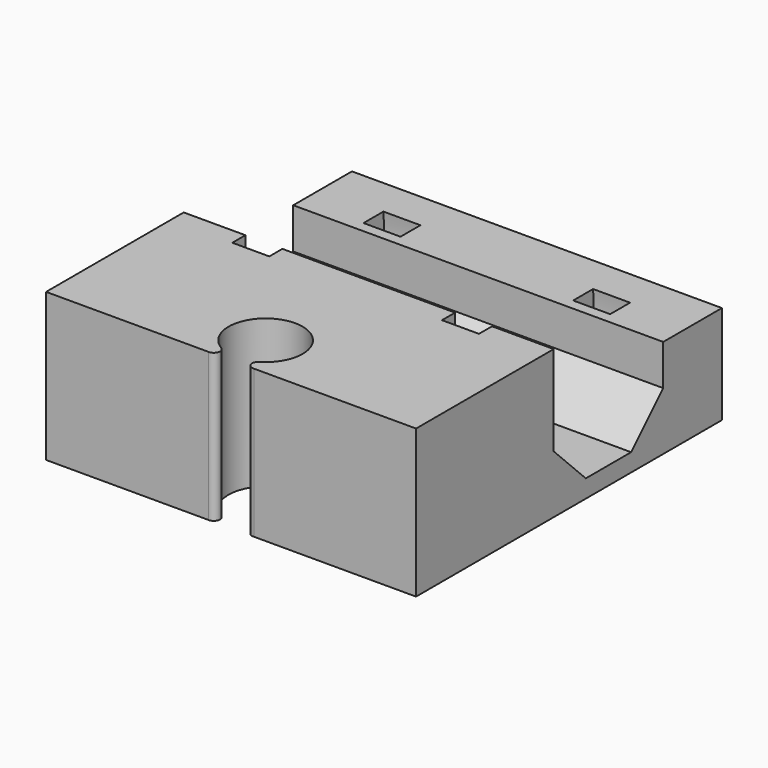
from build123d import *

# Parameters (mm, degrees)
SKETCH003_R     = 8.5
PAD001_DEPTH    = 3
SKETCH004_R     = 6.5
POCKET002_DEPTH = 3.001
PAD_DEPTH       = 12
POCKET_DEPTH    = 30.001
SKETCH002_W     = 5.95
SKETCH002_H     = 4
POCKET001_DEPTH = 30.001


with BuildPart() as pocket002:
    # Sketch003 → Pad001 (new body)
    with BuildSketch(Plane.YZ.offset(10)):
        with Locations((4, 7)):
            Circle(SKETCH003_R)
    extrude(amount=-PAD001_DEPTH)

    # Sketch004 → Pocket002 (cut, through all)
    with BuildSketch(Plane.YZ.offset(10)):
        with Locations((4, 7)):
            Circle(SKETCH004_R)
    extrude(amount=-POCKET002_DEPTH, mode=Mode.SUBTRACT)


with BuildPart() as part_mirroring:
    # Part__Mirroring: instance of Pocket002
    add(pocket002.part.mirror(Plane(origin=(0, 0, 0), x_dir=(0, -1, 0), z_dir=(1, 0, 0))))


with BuildPart() as cut001:
    # Sketch → Pad (new body)
    with BuildSketch(Plane.XY):
        with BuildLine():
            Line((-15, 15.5), (15, 15.5))
            Line((15, 15.5), (15, -15.5))
            Line((1.848981, -15.5), (15, -15.5))
            ThreePointArc((1.543183, -14.572662), (1.323663, -15.159139), (1.848981, -15.5))
            ThreePointArc((1.543183, -14.572662), (0, -9), (-1.543183, -14.572662))
            ThreePointArc((-1.848981, -15.5), (-1.323663, -15.159139), (-1.543183, -14.572662))
            Line((-15, -15.5), (-1.848981, -15.5))
            Line((-15, -15.5), (-15, 15.5))
        make_face()
    extrude(amount=PAD_DEPTH)

    # Sketch001 → Pocket (cut, through all)
    with BuildSketch(Plane(origin=(-15, 0, 0), x_dir=(0, -1, 0), z_dir=(-1, 0, 0))):
        Polygon((1.55, 4.701115), (1.55, 9.298885), (1.55, 12), (-9.55, 12), (-9.55, 9.298885), (-9.55, 4.701115), (-6.298885, 1.45), (-1.701115, 1.45), align=None)
    extrude(amount=-POCKET_DEPTH, mode=Mode.SUBTRACT)

    # Sketch002 → Pocket001 (cut, through all)
    with BuildSketch(Plane(origin=(-15, 0, 0), x_dir=(0, -1, 0), z_dir=(-1, 0, 0))):
        with Locations((-12.525, 10)):
            Rectangle(SKETCH002_W, SKETCH002_H)
    extrude(amount=-POCKET001_DEPTH, mode=Mode.SUBTRACT)

    # Cut: cut Part__Mirroring
    add(part_mirroring.part, mode=Mode.SUBTRACT)

    # Cut001: cut Pocket002
    add(pocket002.part, mode=Mode.SUBTRACT)


solid = cut001.part
